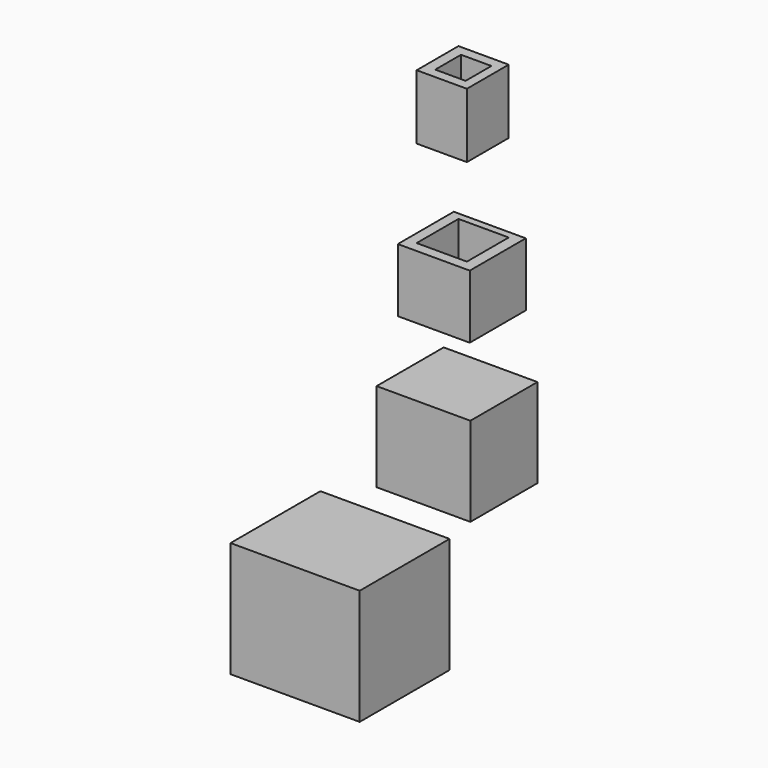
from build123d import *

# Parameters (mm, degrees)
F0_W      = 49.996865
F0_H      = 43.475535
F1_DEPTH  = 44.7
F2_W      = 32.458292
F2_H      = 34.467615
F3_DEPTH  = 48.1
F4_DEPTH  = 36.3
F6_W      = 27.858592
F6_H      = 24.578292
F7_DEPTH  = 27.4
F7_FACE_W = 27.858592
F7_FACE_H = 24.578292
F8_DEPTH  = 27.1
F10_W     = 19.451398
F10_H     = 20.234935
F11_DEPTH = 21.5
F12_DEPTH = 25
F14_W     = 11.760708
F14_H     = 12.460396
F15_DEPTH = 22.3


with BuildPart() as f1:
    # F0 (on Top) → F1 (new body)
    with BuildSketch(Plane.XY):
        with Locations((-9.97961, 0.197617)):
            Rectangle(F0_W, F0_H)
    extrude(amount=F1_DEPTH)

    # F2 (on face) → F3 (cut)
    with BuildSketch(Plane(origin=(-34.978043, 0, 0), x_dir=(0, -1, 0), z_dir=(-1, 0, 0))):
        with Locations((0.154563, 21.963592)):
            Rectangle(F2_W, F2_H)
    extrude(amount=-F3_DEPTH, mode=Mode.SUBTRACT)


with BuildPart() as f4:
    # F2 (on face) → F4 (new body)
    with BuildSketch(Plane(origin=(-34.978043, 0, 0), x_dir=(0, -1, 0), z_dir=(-1, 0, 0))):
        with Locations((0.154563, 21.963592)):
            Rectangle(F2_W, F2_H)
    extrude(amount=F4_DEPTH)


with BuildPart() as f4_1:
    # F5: moved
    add(f4.part.moved(Location((0, 110.9, 0))))

    # F6 (on face) → F7 (cut)
    with BuildSketch(Plane(origin=(0, 126.974583, 0), x_dir=(-1, 0, 0), z_dir=(0, 1, 0))):
        with Locations((53.191889, 22.316037)):
            Rectangle(F6_W, F6_H)
    extrude(amount=-F7_DEPTH, mode=Mode.SUBTRACT)


with BuildPart() as f8:
    # F7_face (on face) → F8 (new body)
    with BuildSketch(Plane(origin=(-53.191889, 99.574583, 22.316037), x_dir=(-1, 0, 0), z_dir=(0, 1, 0))):
        Rectangle(F7_FACE_W, F7_FACE_H)
    extrude(amount=F8_DEPTH)


with BuildPart() as f8_1:
    # F9: moved
    add(f8.part.moved(Location((0, 0, 52.3))))

    # F10 (on face) → F11 (cut)
    with BuildSketch(Plane.XY.offset(86.905183)):
        with Locations((-53.347355, 113.751422)):
            Rectangle(F10_W, F10_H)
    extrude(amount=-F11_DEPTH, mode=Mode.SUBTRACT)


with BuildPart() as f12:
    # F10 (on face) → F12 (new body)
    with BuildSketch(Plane.XY.offset(86.905183)):
        with Locations((-53.347355, 113.751422)):
            Rectangle(F10_W, F10_H)
    extrude(amount=F12_DEPTH)


with BuildPart() as f12_1:
    # F13: moved
    add(f12.part.moved(Location((0, 0, 33.9))))

    # F14 (on face) → F15 (cut)
    with BuildSketch(Plane.XY.offset(145.805183)):
        with Locations((-53.049704, 113.690011)):
            Rectangle(F14_W, F14_H)
    extrude(amount=-F15_DEPTH, mode=Mode.SUBTRACT)


solid = Compound([f1.part, f4_1.part, f8_1.part, f12_1.part])
